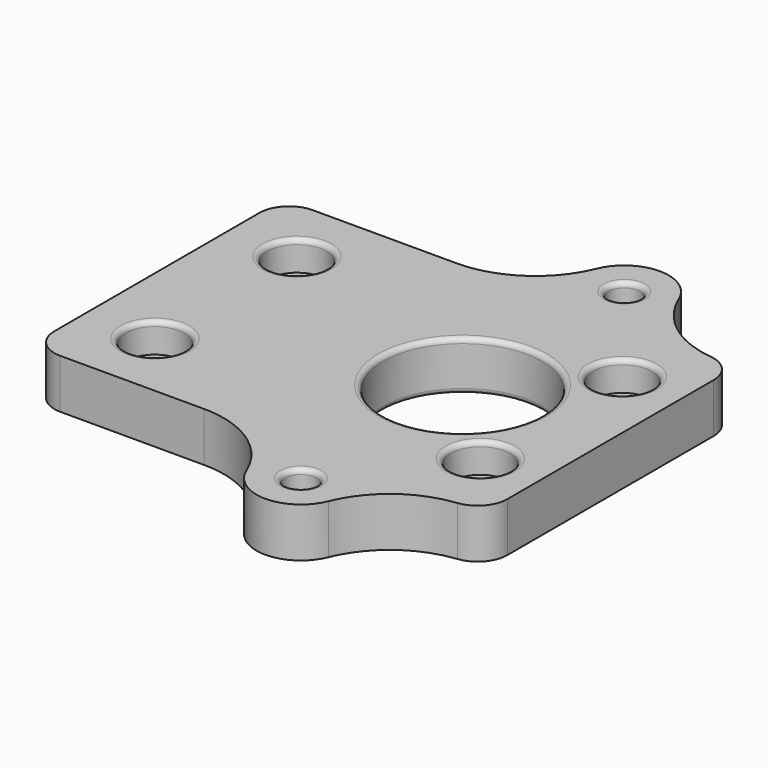
from build123d import *

# Parameters (mm, degrees)
SKETCH_R     = 8.05
SKETCH_R_2   = 1.6
PAD_DEPTH    = 5
FILLET_R     = 10
FILLET001_R  = 3
SKETCH001_R  = 3
POCKET_DEPTH = 3
FILLET002_R  = 0.5


with BuildPart() as part:
    # Sketch → Pad (new body)
    with BuildSketch(Plane.XY):
        with BuildLine():
            Line((15, 16), (15, -16))
            Line((15, -16), (4.5, -16))
            Line((4.5, -16), (4.5, -20.5))
            ThreePointArc((-4.5, -20.5), (0, -25), (4.5, -20.5))
            Line((-4.5, -16), (-4.5, -20.5))
            Line((-31, -16), (-4.5, -16))
            Line((-31, -16), (-31, 16))
            Line((-31, 16), (-4.5, 16))
            Line((-4.5, 16), (-4.5, 20.5))
            ThreePointArc((4.5, 20.5), (0, 25), (-4.5, 20.5))
            Line((4.5, 16), (4.5, 20.5))
            Line((15, 16), (4.5, 16))
        make_face()
        Circle(SKETCH_R, mode=Mode.SUBTRACT)
        with Locations((-24, 9)):
            Circle(SKETCH_R_2, mode=Mode.SUBTRACT)
        with Locations((-24, -9)):
            Circle(SKETCH_R_2, mode=Mode.SUBTRACT)
        with Locations((9, -9)):
            Circle(SKETCH_R_2, mode=Mode.SUBTRACT)
        with Locations((9, 9)):
            Circle(SKETCH_R_2, mode=Mode.SUBTRACT)
        with Locations((0, 20.5)):
            Circle(SKETCH_R_2, mode=Mode.SUBTRACT)
        with Locations((0, -20.5)):
            Circle(SKETCH_R_2, mode=Mode.SUBTRACT)
    extrude(amount=PAD_DEPTH)

    # Fillet
    fillet_edges = [part.edges().sort_by_distance(p)[0] for p in [
        (4.5, 16, 2.5),
        (-4.5, 16, 2.5),
        (-4.5, -16, 2.5),
        (4.5, -16, 2.5),
    ]]
    fillet(fillet_edges, radius=FILLET_R)

    # Fillet001
    fillet001_edges = [part.edges().sort_by_distance(p)[0] for p in [
        (15, 16, 2.5),
        (15, -16, 2.5),
        (-31, 16, 2.5),
        (-31, -16, 2.5),
    ]]
    fillet(fillet001_edges, radius=FILLET001_R)

    # Sketch001 (on Face23 of Fillet001) → Pocket (cut)
    with BuildSketch(Plane.XY.offset(5)):
        with Locations((-24, 9)):
            Circle(SKETCH001_R)
        with Locations((-24, -9)):
            Circle(SKETCH001_R)
        with Locations((9, 9)):
            Circle(SKETCH001_R)
        with Locations((9, -9)):
            Circle(SKETCH001_R)
    extrude(amount=-POCKET_DEPTH, mode=Mode.SUBTRACT)

    # Fillet002
    fillet002_edges = [part.edges().sort_by_distance(p)[0] for p in [
        (-27, 9, 5),
        (-25.6, 9, 2),
        (-27, -9, 5),
        (-25.6, -9, 2),
        (-8.05, 0, 5),
        (6, 9, 5),
        (7.4, 9, 2),
        (6, -9, 5),
        (7.4, -9, 2),
        (-1.6, -20.5, 5),
        (-1.6, 20.5, 5),
        (-1.6, -20.5, 0),
        (7.4, -9, 0),
        (7.4, 9, 0),
        (-1.6, 20.5, 0),
        (-8.05, 0, 0),
        (-25.6, -9, 0),
        (-25.6, 9, 0),
    ]]
    fillet(fillet002_edges, radius=FILLET002_R)


solid = part.part
